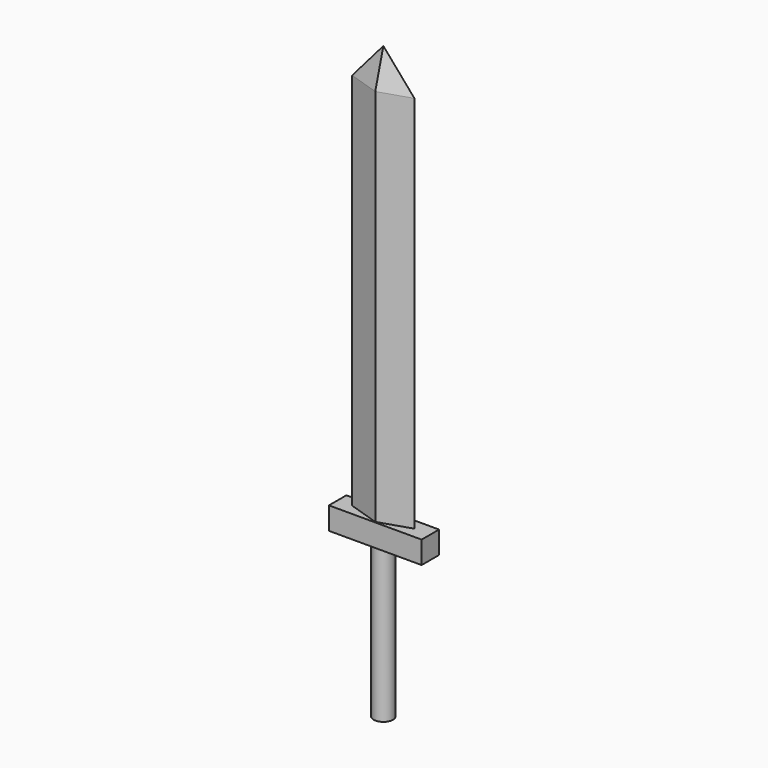
from build123d import *

# Parameters (mm, degrees)
F0_W     = 107.8754812479
F0_H     = 26.1090872809
F1_DEPTH = 12.7
F2_DEPTH = 12.7
F3_R     = 11.2223896829
F4_DEPTH = 177.8
F6_DEPTH = 482.6
F7_SIZE2 = 11.1616915599
F7_SIZE  = 41.656


with BuildPart() as f1:
    # F0 (on Front) → F1 (new body)
    with BuildSketch(Plane.XZ):
        with Locations((0.7920116186, 0.3961385228)):
            Rectangle(F0_W, F0_H)
    extrude(amount=F1_DEPTH)

    # F2 (add): a face of the model
    f2_faces = [f1.faces().sort_by_distance(p)[0] for p in [
        (0.7920116186, 0, 0.3961385228),
    ]]
    extrude(f2_faces, amount=F2_DEPTH)

    # F3 (on face) → F4 (join)
    with BuildSketch(Plane(origin=(0, 0, -12.6584051177), x_dir=(1, 0, 0), z_dir=(0, 0, -1))):
        Circle(F3_R)
    extrude(amount=F4_DEPTH)

    # F5 (on face) → F6 (join)
    with BuildSketch(Plane.XY.offset(13.4506821632)):
        Polygon((36.2057685852, 0), (0, 11.8748378009), (-36.2340435386, 0), (0, -11.7327794433), align=None)
    extrude(amount=F6_DEPTH)

    # F7
    f7_edges = [f1.edges().sort_by_distance(p)[0] for p in [
        (-18.117022, -5.86639, 496.050682),
        (18.102884, -5.86639, 496.050682),
        (18.102884, 5.937419, 496.050682),
        (-18.117022, 5.937419, 496.050682),
    ]]
    chamfer(f7_edges, length=F7_SIZE, length2=F7_SIZE2)


solid = f1.part
